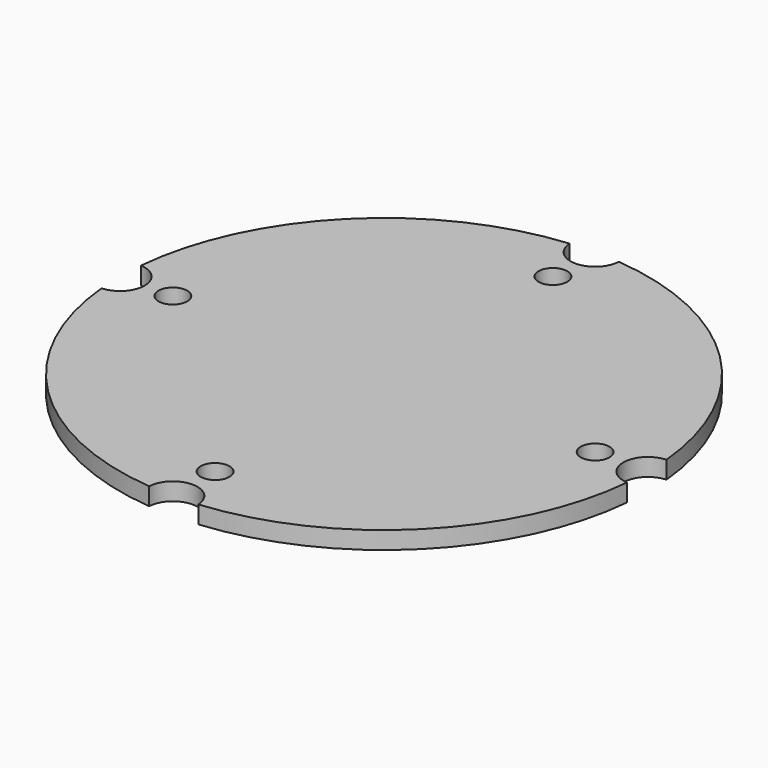
from build123d import *

# Parameters (mm, degrees)
F0_R     = 75
F1_DEPTH = 5
F2_R     = 4.1
F3_DEPTH = 5


with BuildPart() as f1:
    # F0 (on Top) → F1 (new body)
    with BuildSketch(Plane.XY):
        Circle(F0_R)
    extrude(amount=F1_DEPTH)

    # F2 (on face) → F3 (cut, through all)
    with BuildSketch(Plane.XY.offset(5)):
        with Locations((0, 60)):
            Circle(F2_R)
        with Locations((60, 0)):
            Circle(F2_R)
        with Locations((0, -60)):
            Circle(F2_R)
        with Locations((-60, 0)):
            Circle(F2_R)
        with BuildLine():
            ThreePointArc((74.673333, -6.992374), (75, 0), (74.673333, 6.992374))
            ThreePointArc((74.673333, 6.992374), (68, 0), (74.673333, -6.992374))
        make_face()
        with BuildLine():
            ThreePointArc((-6.992374, 74.673333), (0, 68), (6.992374, 74.673333))
            ThreePointArc((6.992374, 74.673333), (0, 75), (-6.992374, 74.673333))
        make_face()
        with BuildLine():
            ThreePointArc((-74.673333, -6.992374), (-68, 0), (-74.673333, 6.992374))
            ThreePointArc((-74.673333, 6.992374), (-75, 0), (-74.673333, -6.992374))
        make_face()
        with BuildLine():
            ThreePointArc((6.992374, -74.673333), (0, -68), (-6.992374, -74.673333))
            ThreePointArc((-6.992374, -74.673333), (0, -75), (6.992374, -74.673333))
        make_face()
    extrude(amount=-F3_DEPTH, mode=Mode.SUBTRACT)


solid = f1.part
